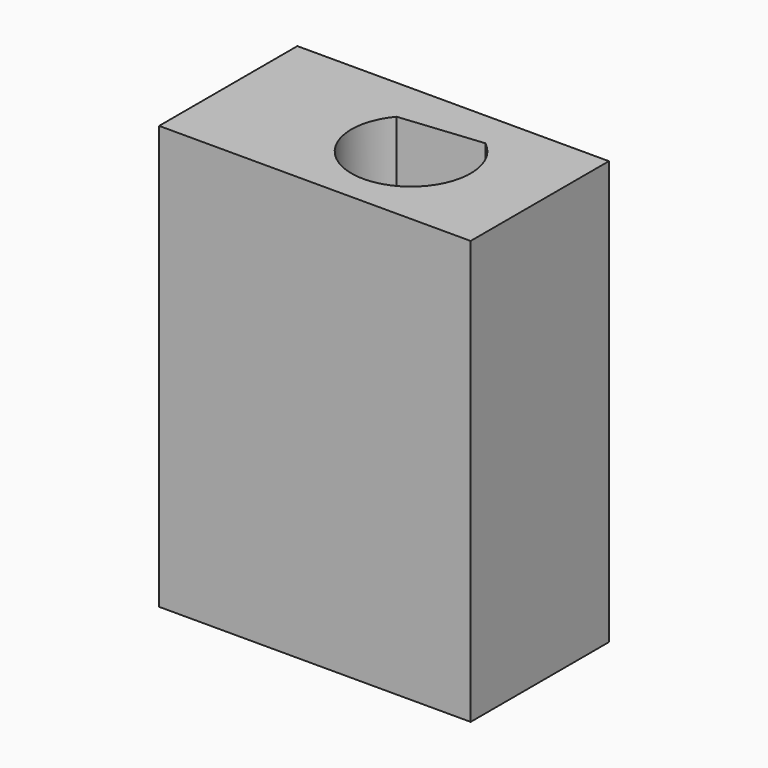
from build123d import *

# Parameters (mm, degrees)
F0_W     = 45.793685
F0_H     = 36.839138
F1_DEPTH = 25.4
F2_W     = 45.793685
F2_H     = 25.4
F3_DEPTH = 25.4


with BuildPart() as f1:
    # F0 (on Front) → F1 (new body)
    with BuildSketch(Plane.XZ):
        with Locations((-6.603248, -3.885378)):
            Rectangle(F0_W, F0_H)
    extrude(amount=F1_DEPTH)

    # F2 (on face) → F3 (join)
    with BuildSketch(Plane.XY.offset(14.534191)):
        with Locations((-6.603248, -12.7)):
            Rectangle(F2_W, F2_H)
        with BuildLine():
            ThreePointArc((2.446352, -5.376265), (-2.080354, -21.006431), (-9.641494, -6.597326))
            Line((-9.641494, -6.597326), (2.446352, -5.376265))
        make_face(mode=Mode.SUBTRACT)
    extrude(amount=F3_DEPTH)


solid = f1.part
